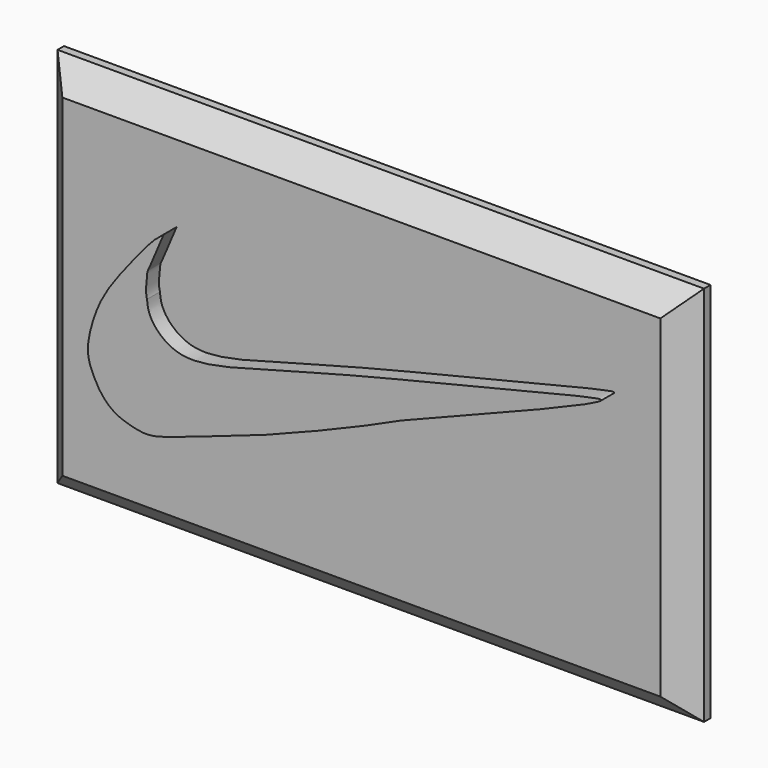
from build123d import *

# Parameters (mm, degrees)
F0_W     = 80
F0_H     = 47.2
F1_DEPTH = 4
F2_DEPTH = 6
F3_SIZE  = 3


with BuildPart() as f1:
    # F0 (on Front) → F1 (new body)
    with BuildSketch(Plane.XZ):
        with Locations((40, 23.6)):
            Rectangle(F0_W, F0_H)
        with BuildLine():
            add(Edge.make_bspline(
                [(17.1363148838, 34.6875376999), (15.9709714115, 33.813533296), (14.6454076172, 32.2361525539), (10.8054794007, 27.5349979334), (8.8814864432, 24.2395643572), (7.7208840141, 20.337695709), (7.7068437804, 17.7983637424), (8.7168352507, 15.9980168361), (9.1244392097, 15.267027542)],
                knots=[0, 0, 0, 0, 0.1657058096, 0.3740097389, 0.5477834709, 0.7184266397, 0.8557661666, 1, 1, 1, 1], degree=3))
            add(Edge.make_bspline(
                [(15.0800812989, 26.9671771675), (14.8434402907, 27.6429571585), (15.249879851, 31.0417693735), (15.0800812989, 29.6218451113), (17.1363148838, 34.6875376999)],
                knots=[0, 0, 0, 0, 0.410665319, 1, 1, 1, 1], degree=3))
            add(Edge.make_bspline(
                [(46.5358011425, 23.9828266203), (58.8610870399, 28.8220409737), (77.8743960363, 36.2880986902), (61.4713754953, 31.9454210046), (40.349209885, 27.100503176), (26.3522324836, 23.0275354439), (22.2033889542, 22.2112571048), (19.5731772361, 22.1226822304), (17.5042470378, 22.8769475905), (15.669613301, 24.5211589613), (15.1214094982, 25.9935981564), (15.0800812989, 26.9671771675)],
                knots=[0, 0, 0, 0, 0.2084981148, 0.3208473341, 0.5211847938, 0.673672188, 0.752933241, 0.8158348084, 0.8747460304, 0.9362283877, 1, 1, 1, 1], degree=3))
            add(Edge.make_bspline(
                [(9.1244392097, 15.267027542), (9.8846950199, 14.168879844), (11.0754057506, 13.1999786552), (12.828750462, 12.5843103062), (15.2765601562, 11.9936947768), (18.7775524844, 13.1604719137), (27.6036856538, 16.179956986), (30.6936505315, 17.2942993327), (40.123596938, 21.0488710633), (44.3796571006, 23.0051061568), (46.5358011425, 23.9828266203)],
                knots=[0, 0, 0, 0, 0.0988889906, 0.1751702122, 0.2623644396, 0.3757677658, 0.5501487398, 0.6626437638, 0.8425100104, 1, 1, 1, 1], degree=3))
        make_face(mode=Mode.SUBTRACT)
    extrude(amount=F1_DEPTH)

    # F0 (on Front) → F2 (join)
    with BuildSketch(Plane.XZ):
        with BuildLine():
            add(Edge.make_bspline(
                [(15.0800812989, 26.9671771675), (14.8434402907, 27.6429571585), (15.249879851, 31.0417693735), (15.0800812989, 29.6218451113), (17.1363148838, 34.6875376999)],
                knots=[0, 0, 0, 0, 0.410665319, 1, 1, 1, 1], degree=3))
            add(Edge.make_bspline(
                [(17.1363148838, 34.6875376999), (15.9709714115, 33.813533296), (14.6454076172, 32.2361525539), (10.8054794007, 27.5349979334), (8.8814864432, 24.2395643572), (7.7208840141, 20.337695709), (7.7068437804, 17.7983637424), (8.7168352507, 15.9980168361), (9.1244392097, 15.267027542)],
                knots=[0, 0, 0, 0, 0.1657058096, 0.3740097389, 0.5477834709, 0.7184266397, 0.8557661666, 1, 1, 1, 1], degree=3))
            add(Edge.make_bspline(
                [(9.1244392097, 15.267027542), (9.8846950199, 14.168879844), (11.0754057506, 13.1999786552), (12.828750462, 12.5843103062), (15.2765601562, 11.9936947768), (18.7775524844, 13.1604719137), (27.6036856538, 16.179956986), (30.6936505315, 17.2942993327), (40.123596938, 21.0488710633), (44.3796571006, 23.0051061568), (46.5358011425, 23.9828266203)],
                knots=[0, 0, 0, 0, 0.0988889906, 0.1751702122, 0.2623644396, 0.3757677658, 0.5501487398, 0.6626437638, 0.8425100104, 1, 1, 1, 1], degree=3))
            add(Edge.make_bspline(
                [(46.5358011425, 23.9828266203), (58.8610870399, 28.8220409737), (77.8743960363, 36.2880986902), (61.4713754953, 31.9454210046), (40.349209885, 27.100503176), (26.3522324836, 23.0275354439), (22.2033889542, 22.2112571048), (19.5731772361, 22.1226822304), (17.5042470378, 22.8769475905), (15.669613301, 24.5211589613), (15.1214094982, 25.9935981564), (15.0800812989, 26.9671771675)],
                knots=[0, 0, 0, 0, 0.2084981148, 0.3208473341, 0.5211847938, 0.673672188, 0.752933241, 0.8158348084, 0.8747460304, 0.9362283877, 1, 1, 1, 1], degree=3))
        make_face()
    extrude(amount=F2_DEPTH)

    # F3
    f3_edges = [f1.edges().sort_by_distance(p)[0] for p in [
        (0, -4, 23.6),
        (40, -4, 0),
        (80, -4, 23.6),
        (40, -4, 47.2),
    ]]
    chamfer(f3_edges, length=F3_SIZE)


solid = f1.part
